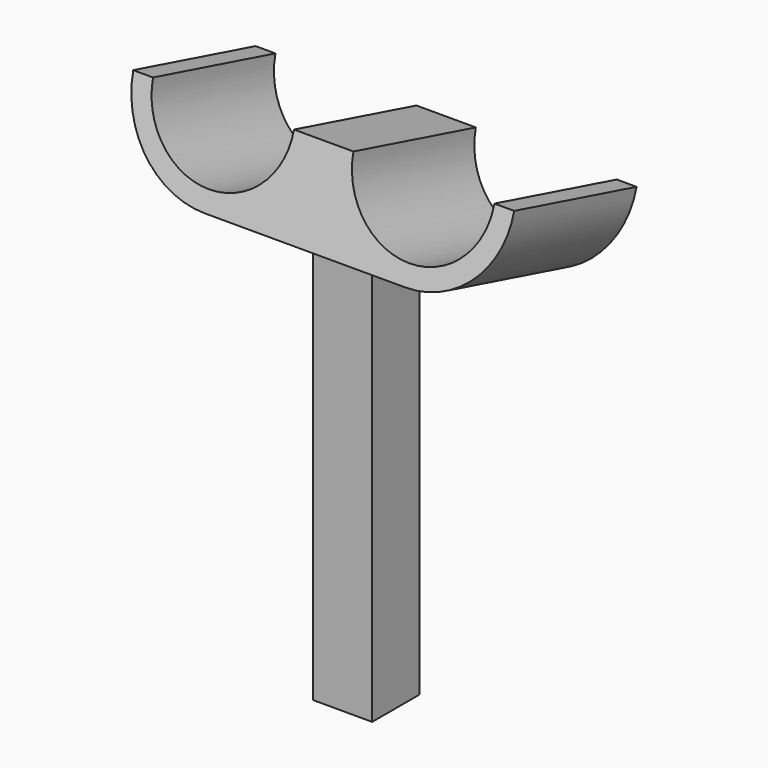
from build123d import *

# Parameters (mm, degrees)
F1_DEPTH = 19.05
F5_DEPTH = 25.4


with BuildPart() as f1:
    # F0 (on Right) → F1 (new body)
    with BuildSketch(Plane.YZ):
        Polygon((-9.525, 63.5), (-9.525, -63.5), (9.525, -63.5), (9.525, 63.5), (-9.525, 68.604432), align=None)
    extrude(amount=F1_DEPTH)

    # F4 (on face) → F5 (join, symmetric)
    with BuildSketch(Plane(origin=(0, -16.513054, 4.424659), x_dir=(-1, 0, 0), z_dir=(0, 0.965926, -0.258819))):
        with BuildLine():
            Line((-41.656, 63.801541), (-19.05, 63.801541))
            Line((-19.05, 63.801541), (0, 63.801541))
            Line((0, 63.801541), (22.606, 63.801541))
            ThreePointArc((22.606, 63.801541), (43.080984, 72.282557), (51.562, 92.757541))
            Line((51.562, 92.757541), (45.212, 92.757541))
            ThreePointArc((45.212, 92.757541), (22.606, 70.151541), (0, 92.757541))
            Line((0, 92.757541), (-19.05, 92.757541))
            ThreePointArc((-19.05, 92.757541), (-41.656, 70.151541), (-64.262, 92.757541))
            Line((-64.262, 92.757541), (-70.612, 92.757541))
            ThreePointArc((-70.612, 92.757541), (-62.130984, 72.282557), (-41.656, 63.801541))
        make_face()
    extrude(amount=F5_DEPTH, both=True)


with BuildPart() as f6_1:
    # F6: copy of F1
    add(f1.part)


solid = Compound([f1.part, f6_1.part])
